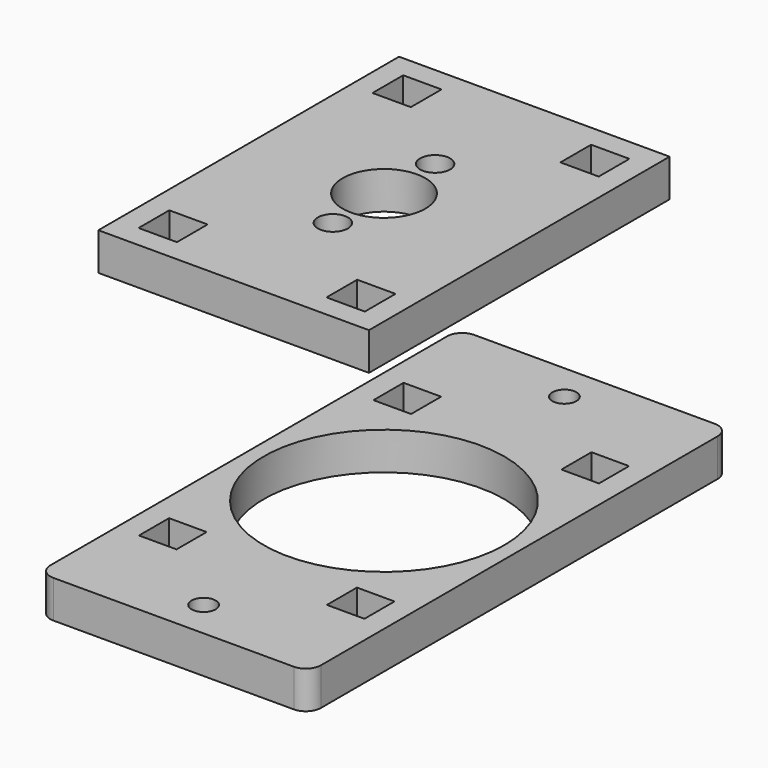
from build123d import *

# Parameters (mm, degrees)
F0_W     = 5
F0_H     = 5
F0_R     = 1.6
F0_R_2   = 16
F3_DEPTH = 5
F2_W     = 36
F2_H     = 50
F2_W_2   = 5.1
F2_H_2   = 5.1
F2_R     = 2
F2_R_2   = 5.5
F4_DEPTH = 5


with BuildPart() as f3:
    # F0 (on Top) → F3 (new body)
    with BuildSketch(Plane.XY):
        with BuildLine():
            ThreePointArc((18, 33), (17.414214, 34.414214), (16, 35))
            Line((16, 35), (-16, 35))
            ThreePointArc((-16, 35), (-17.414214, 34.414214), (-18, 33))
            Line((-18, 33), (-18, -33))
            ThreePointArc((-18, -33), (-17.414214, -34.414214), (-16, -35))
            Line((-16, -35), (16, -35))
            ThreePointArc((16, -35), (17.414214, -34.414214), (18, -33))
            Line((18, -33), (18, 33))
        make_face()
        with Locations((-12.5, -19.5)):
            Rectangle(F0_W, F0_H, mode=Mode.SUBTRACT)
        with Locations((0, -30)):
            Circle(F0_R, mode=Mode.SUBTRACT)
        with Locations((12.5, -19.5)):
            Rectangle(F0_W, F0_H, mode=Mode.SUBTRACT)
        with Locations((-12.5, 19.5)):
            Rectangle(F0_W, F0_H, mode=Mode.SUBTRACT)
        Circle(F0_R_2, mode=Mode.SUBTRACT)
        with Locations((0, 30)):
            Circle(F0_R, mode=Mode.SUBTRACT)
        with Locations((12.5, 19.5)):
            Rectangle(F0_W, F0_H, mode=Mode.SUBTRACT)
    extrude(amount=F3_DEPTH)


with BuildPart() as f4:
    # F2 (on offset) → F4 (new body)
    with BuildSketch(Plane.XY.offset(41)):
        Rectangle(F2_W, F2_H)
        with Locations((-12.5, -19.45)):
            Rectangle(F2_W_2, F2_H_2, mode=Mode.SUBTRACT)
        with Locations((-12.5, 19.45)):
            Rectangle(F2_W_2, F2_H_2, mode=Mode.SUBTRACT)
        with Locations((12.5, -19.45)):
            Rectangle(F2_W_2, F2_H_2, mode=Mode.SUBTRACT)
        with Locations((0, -8.5)):
            Circle(F2_R, mode=Mode.SUBTRACT)
        Circle(F2_R_2, mode=Mode.SUBTRACT)
        with Locations((0, 8.5)):
            Circle(F2_R, mode=Mode.SUBTRACT)
        with Locations((12.5, 19.45)):
            Rectangle(F2_W_2, F2_H_2, mode=Mode.SUBTRACT)
    extrude(amount=-F4_DEPTH)


solid = Compound([f3.part, f4.part])
